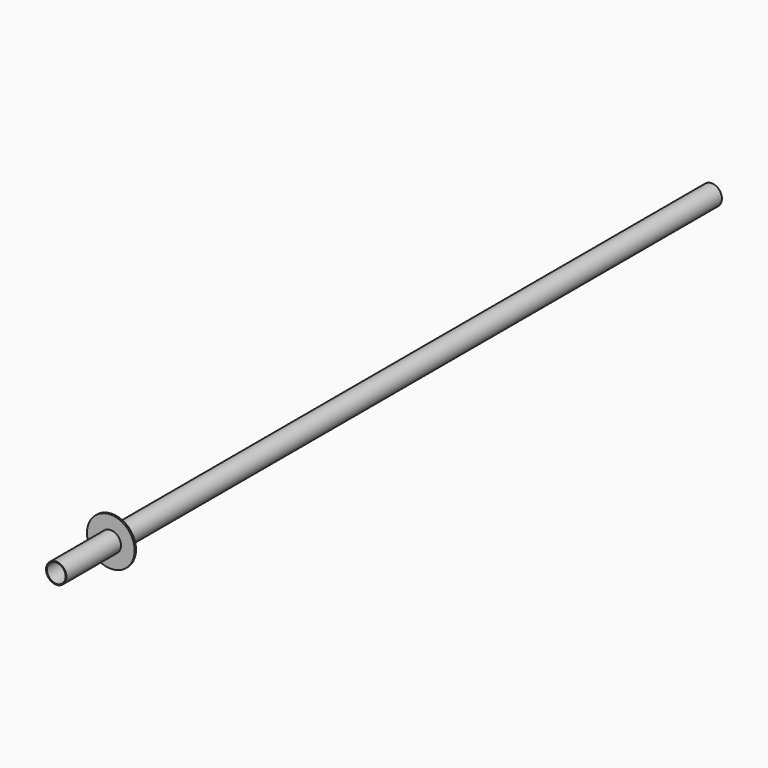
from build123d import *

# Parameters (mm, degrees)
F0_R     = 30
F0_R_2   = 27.5
F1_DEPTH = 1100
F2_R     = 70
F3_DEPTH = 5
F4_R     = 30
F4_R_2   = 27.5
F5_DEPTH = 200


with BuildPart() as f1:
    # F0 (on Front) → F1 (new body, symmetric)
    with BuildSketch(Plane.XZ):
        Circle(F0_R)
        Circle(F0_R_2, mode=Mode.SUBTRACT)
    extrude(amount=F1_DEPTH, both=True)

    # F2 (on face) → F3 (join)
    with BuildSketch(Plane.XZ.offset(1100)):
        Circle(F2_R)
    extrude(amount=F3_DEPTH)

    # F4 (on face) → F5 (join)
    with BuildSketch(Plane.XZ.offset(1105)):
        Circle(F4_R)
        Circle(F4_R_2, mode=Mode.SUBTRACT)
    extrude(amount=F5_DEPTH)


solid = f1.part
